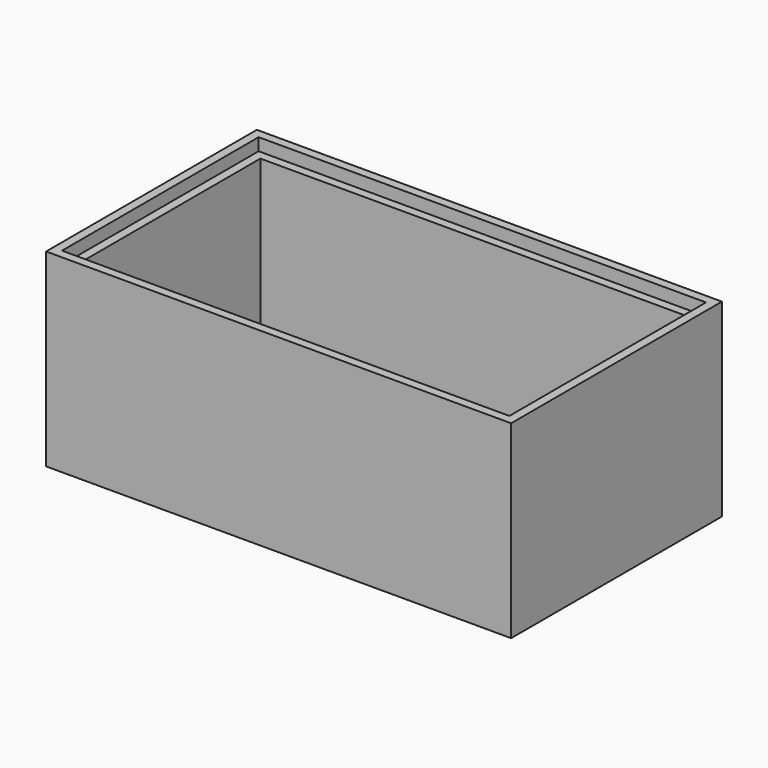
from build123d import *

# Parameters (mm, degrees)
F0_W          = 64.262
F0_H          = 35.306
F0_W_2        = 61.722
F0_H_2        = 32.766
F1_DEPTH      = 25.4
F2_W          = 66.802
F2_H          = 37.846
F2_W_2        = 64.262
F2_H_2        = 35.306
F3_DEPTH      = 1.778
F3_DEPTH_BACK = 25.4


with BuildPart() as f1:
    # F0 (on Top) → F1 (new body)
    with BuildSketch(Plane.XY):
        Rectangle(F0_W, F0_H)
        Rectangle(F0_W_2, F0_H_2, mode=Mode.SUBTRACT)
    extrude(amount=-F1_DEPTH)

    # F2 (on Top) → F3 (join, two sides)
    with BuildSketch(Plane.XY) as f3_sk:
        Rectangle(F2_W, F2_H)
        Rectangle(F2_W_2, F2_H_2, mode=Mode.SUBTRACT)
    extrude(amount=F3_DEPTH)
    extrude(f3_sk.sketch, amount=-F3_DEPTH_BACK)


solid = f1.part
